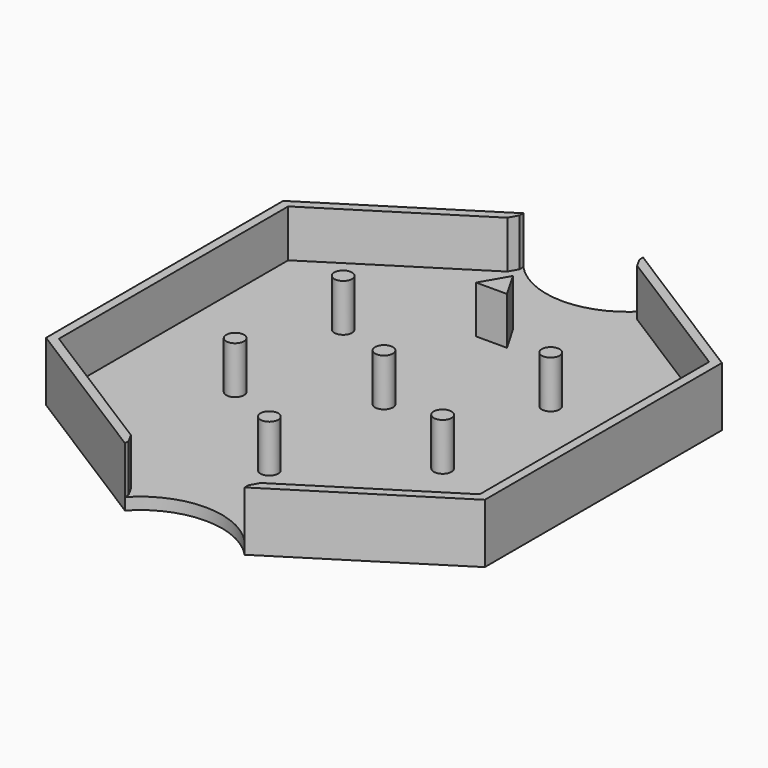
from build123d import *

# Parameters (mm, degrees)
F1_DEPTH = 2
F3_DEPTH = 8
F4_R     = 1.5
F5_DEPTH = 8
F6_SIZE  = 1


with BuildPart() as f1:
    # F0 (on Top) → F1 (new body)
    with BuildSketch(Plane.XY):
        with BuildLine():
            Line((-10.922433, 40.600829), (-37.822433, 23.600829))
            Line((-37.822433, 23.600829), (-37.822433, -26.399171))
            Line((-37.822433, -26.399171), (-10.922433, -43.399171))
            ThreePointArc((-10.922433, -43.399171), (-0.822433, -39.026117), (9.277567, -43.399171))
            Line((9.277567, -43.399171), (36.177567, -26.399171))
            Line((36.177567, -26.399171), (36.177567, 23.600829))
            Line((36.177567, 23.600829), (9.277567, 40.600829))
            ThreePointArc((9.277567, 40.600829), (-0.822433, 36.227775), (-10.922433, 40.600829))
        make_face()
    extrude(amount=-F1_DEPTH)

    # F2 (on Top) → F3 (join)
    with BuildSketch(Plane.XY):
        Polygon((36.177567, -15.736748), (36.177567, 23.600829), (9.277567, 40.600829), (9.277567, 38.826394), (34.677567, 22.774349), (34.677567, -18.295043), (34.677567, -25.572692), (9.277567, -41.624736), (9.277567, -43.399171), (36.177567, -26.399171), align=None)
        Polygon((-10.922433, 38.826394), (-10.922433, 40.600829), (-37.822433, 23.600829), (-37.822433, -26.399171), (-10.922433, -43.399171), (-10.922433, -41.624736), (-31.431845, -28.663398), (-36.322433, -25.572692), (-36.322433, 22.774349), align=None)
    extrude(amount=F3_DEPTH)

    # F4 (on face) → F5 (join)
    with BuildSketch(Plane.XY):
        with Locations((-0.822433, -25.572692)):
            Circle(F4_R)
        with Locations((-0.822433, -1.399171)):
            Circle(F4_R)
        with Locations((16.677567, -10.911981)):
            Circle(F4_R)
        with Locations((16.677567, 11.862593)):
            Circle(F4_R)
        with Locations((-18.322433, 11.862593)):
            Circle(F4_R)
        with Locations((-18.322433, -10.911981)):
            Circle(F4_R)
        Polygon((-3.420509, 21.274349), (1.775643, 21.274349), (-0.822433, 25.774349), align=None)
    extrude(amount=F5_DEPTH)

    # F6
    f6_edges = [f1.edges().sort_by_distance(p)[0] for p in [
        (-10.922433, 38.826394, 4),
        (9.277567, 38.826394, 4),
        (-10.922433, -41.624736, 4),
        (9.277567, -41.624736, 4),
    ]]
    chamfer(f6_edges, length=F6_SIZE)


solid = f1.part
